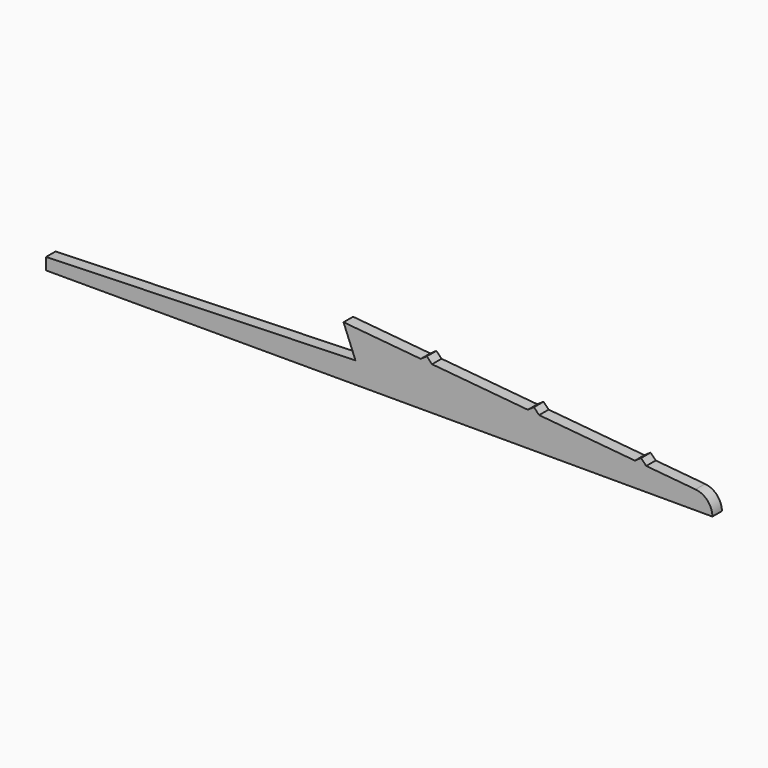
from build123d import *

# Parameters (mm, degrees)
F1_DEPTH = 1


with BuildPart() as f1:
    # F0 (on Front) → F1 (new body)
    with BuildSketch(Plane.XZ):
        with BuildLine():
            Line((-55.349811, -4.232354), (-55.349811, -5.232354))
            Line((-55.349811, -5.232354), (0.650189, -5.232354))
            ThreePointArc((0.650189, -5.232354), (0.238892, -4.183401), (-0.770274, -3.682354))
            Line((-0.770274, -3.682354), (-4.912185, -3.297281))
            Line((-4.912185, -3.297281), (-5.349811, -2.85487))
            Line((-5.349811, -2.85487), (-5.861494, -3.209024))
            Line((-5.861494, -3.209024), (-13.912185, -2.460554))
            Line((-13.912185, -2.460554), (-14.349811, -2.018143))
            Line((-14.349811, -2.018143), (-14.861494, -2.372297))
            Line((-14.861494, -2.372297), (-22.912185, -1.623827))
            Line((-22.912185, -1.623827), (-23.349811, -1.181416))
            Line((-23.349811, -1.181416), (-23.861494, -1.53557))
            Line((-23.861494, -1.53557), (-30.349811, -0.932354))
            Line((-30.349811, -0.932354), (-29.349811, -3.432354))
            Line((-29.349811, -3.432354), (-55.349811, -4.232354))
        make_face()
    extrude(amount=F1_DEPTH)


solid = f1.part
